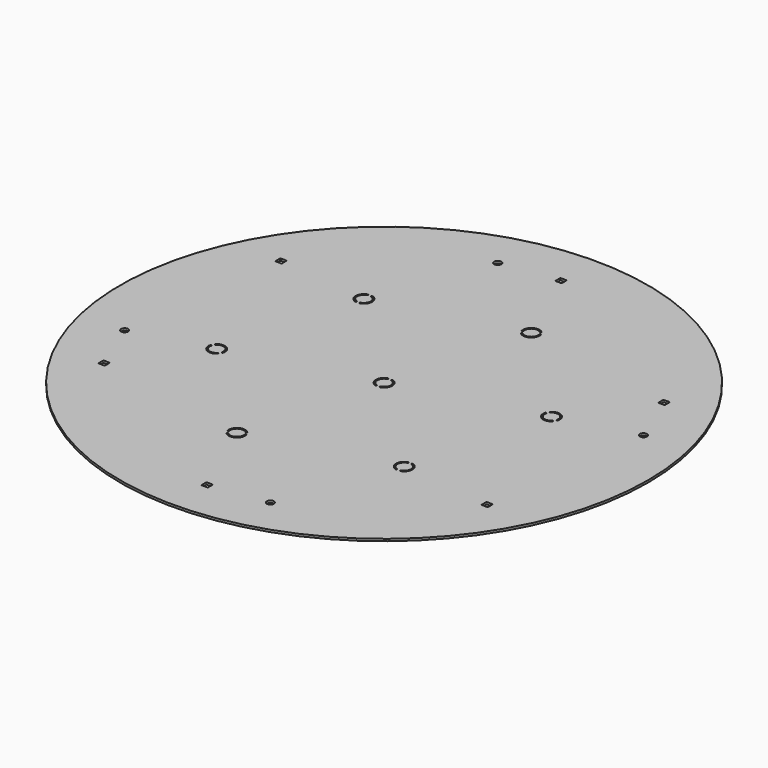
from build123d import *

# Parameters (mm, degrees)
F0_R     = 370
F1_DEPTH = 3
F3_DEPTH = 5
F4_R     = 370
F5_DEPTH = 3
F6_R     = 370
F6_R_2   = 5
F7_DEPTH = 3
F8_R     = 370
F8_R_2   = 5
F9_DEPTH = 3


with BuildPart() as f1:
    # F0 (on Top) → F1 (new body)
    with BuildSketch(Plane.XY):
        Circle(F0_R)
    extrude(amount=F1_DEPTH)

    # F2 (on face) → F3 (cut)
    with BuildSketch(Plane.XY.offset(3)):
        with BuildLine():
            ThreePointArc((4.5, 314), (4.353553, 314.353553), (4, 314.5))
            Line((4, 314.5), (-4, 314.5))
            ThreePointArc((-4, 314.5), (-4.353553, 314.353553), (-4.5, 314))
            Line((-4.5, 314), (-4.5, 306))
            ThreePointArc((-4.5, 306), (-4.353553, 305.646447), (-4, 305.5))
            Line((-4, 305.5), (4, 305.5))
            ThreePointArc((4, 305.5), (4.353553, 305.646447), (4.5, 306))
            Line((4.5, 306), (4.5, 314))
        make_face()
        with BuildLine():
            ThreePointArc((272.967875, 159), (272.821429, 159.353553), (272.467875, 159.5))
            Line((272.467875, 159.5), (264.467875, 159.5))
            ThreePointArc((264.467875, 159.5), (264.114322, 159.353553), (263.967875, 159))
            Line((263.967875, 159), (263.967875, 151))
            ThreePointArc((263.967875, 151), (264.114322, 150.646447), (264.467875, 150.5))
            Line((264.467875, 150.5), (272.467875, 150.5))
            ThreePointArc((272.467875, 150.5), (272.821429, 150.646447), (272.967875, 151))
            Line((272.967875, 151), (272.967875, 159))
        make_face()
        with BuildLine():
            ThreePointArc((272.967875, -151), (272.821429, -150.646447), (272.467875, -150.5))
            Line((272.467875, -150.5), (264.467875, -150.5))
            ThreePointArc((264.467875, -150.5), (264.114322, -150.646447), (263.967875, -151))
            Line((263.967875, -151), (263.967875, -159))
            ThreePointArc((263.967875, -159), (264.114322, -159.353553), (264.467875, -159.5))
            Line((264.467875, -159.5), (272.467875, -159.5))
            ThreePointArc((272.467875, -159.5), (272.821429, -159.353553), (272.967875, -159))
            Line((272.967875, -159), (272.967875, -151))
        make_face()
        with BuildLine():
            Line((4, -305.5), (-4, -305.5))
            ThreePointArc((-4, -305.5), (-4.353553, -305.646447), (-4.5, -306))
            Line((-4.5, -306), (-4.5, -314))
            ThreePointArc((-4.5, -314), (-4.353553, -314.353553), (-4, -314.5))
            Line((-4, -314.5), (4, -314.5))
            ThreePointArc((4, -314.5), (4.353553, -314.353553), (4.5, -314))
            Line((4.5, -314), (4.5, -306))
            ThreePointArc((4.5, -306), (4.353553, -305.646447), (4, -305.5))
        make_face()
        with BuildLine():
            ThreePointArc((-263.967875, -151), (-264.114322, -150.646447), (-264.467875, -150.5))
            Line((-264.467875, -150.5), (-272.467875, -150.5))
            ThreePointArc((-272.467875, -150.5), (-272.821429, -150.646447), (-272.967875, -151))
            Line((-272.967875, -151), (-272.967875, -159))
            ThreePointArc((-272.967875, -159), (-272.821429, -159.353553), (-272.467875, -159.5))
            Line((-272.467875, -159.5), (-264.467875, -159.5))
            ThreePointArc((-264.467875, -159.5), (-264.114322, -159.353553), (-263.967875, -159))
            Line((-263.967875, -159), (-263.967875, -151))
        make_face()
        with BuildLine():
            Line((-272.467875, 150.5), (-264.467875, 150.5))
            ThreePointArc((-264.467875, 150.5), (-264.114322, 150.646447), (-263.967875, 151))
            Line((-263.967875, 151), (-263.967875, 159))
            ThreePointArc((-263.967875, 159), (-264.114322, 159.353553), (-264.467875, 159.5))
            Line((-264.467875, 159.5), (-272.467875, 159.5))
            ThreePointArc((-272.467875, 159.5), (-272.821429, 159.353553), (-272.967875, 159))
            Line((-272.967875, 159), (-272.967875, 151))
            ThreePointArc((-272.967875, 151), (-272.821429, 150.646447), (-272.467875, 150.5))
        make_face()
    extrude(amount=-F3_DEPTH, mode=Mode.SUBTRACT)

    # F4 (on face) → F5 (intersect, through all)
    with BuildSketch(Plane.XY.offset(3)):
        Circle(F4_R)
        with BuildLine():
            ThreePointArc((-264.467875, -150.5), (-264.114322, -150.646447), (-263.967875, -151))
            Line((-263.967875, -151), (-263.967875, -159))
            ThreePointArc((-263.967875, -159), (-264.114322, -159.353553), (-264.467875, -159.5))
            Line((-264.467875, -159.5), (-272.467875, -159.5))
            ThreePointArc((-272.467875, -159.5), (-272.821429, -159.353553), (-272.967875, -159))
            Line((-272.967875, -159), (-272.967875, -151))
            ThreePointArc((-272.967875, -151), (-272.821429, -150.646447), (-272.467875, -150.5))
            Line((-272.467875, -150.5), (-264.467875, -150.5))
        make_face(mode=Mode.SUBTRACT)
        with BuildLine():
            ThreePointArc((4, -305.5), (4.353553, -305.646447), (4.5, -306))
            Line((4.5, -306), (4.5, -314))
            ThreePointArc((4.5, -314), (4.353553, -314.353553), (4, -314.5))
            Line((4, -314.5), (-4, -314.5))
            ThreePointArc((-4, -314.5), (-4.353553, -314.353553), (-4.5, -314))
            Line((-4.5, -314), (-4.5, -306))
            ThreePointArc((-4.5, -306), (-4.353553, -305.646447), (-4, -305.5))
            Line((-4, -305.5), (4, -305.5))
        make_face(mode=Mode.SUBTRACT)
        with BuildLine():
            Line((272.967875, -151), (272.967875, -159))
            ThreePointArc((272.967875, -159), (272.821429, -159.353553), (272.467875, -159.5))
            Line((272.467875, -159.5), (264.467875, -159.5))
            ThreePointArc((264.467875, -159.5), (264.114322, -159.353553), (263.967875, -159))
            Line((263.967875, -159), (263.967875, -151))
            ThreePointArc((263.967875, -151), (264.114322, -150.646447), (264.467875, -150.5))
            Line((264.467875, -150.5), (272.467875, -150.5))
            ThreePointArc((272.467875, -150.5), (272.821429, -150.646447), (272.967875, -151))
        make_face(mode=Mode.SUBTRACT)
        with BuildLine():
            ThreePointArc((-263.967875, 151), (-264.114322, 150.646447), (-264.467875, 150.5))
            Line((-264.467875, 150.5), (-272.467875, 150.5))
            ThreePointArc((-272.467875, 150.5), (-272.821429, 150.646447), (-272.967875, 151))
            Line((-272.967875, 151), (-272.967875, 159))
            ThreePointArc((-272.967875, 159), (-272.821429, 159.353553), (-272.467875, 159.5))
            Line((-272.467875, 159.5), (-264.467875, 159.5))
            ThreePointArc((-264.467875, 159.5), (-264.114322, 159.353553), (-263.967875, 159))
            Line((-263.967875, 159), (-263.967875, 151))
        make_face(mode=Mode.SUBTRACT)
        with BuildLine():
            ThreePointArc((-2, 10.062306), (-2.198216, 9.464692), (-2.714286, 9.103991))
            ThreePointArc((-2.714286, 9.103991), (-9.5, 0), (-2.714286, -9.103991))
            ThreePointArc((-2.714286, -9.103991), (-2.198216, -9.464692), (-2, -10.062306))
            ThreePointArc((-2, -10.062306), (-2.402386, -10.86409), (-3.285714, -11.020621))
            ThreePointArc((-3.285714, -11.020621), (-11.5, 0), (-3.285714, 11.020621))
            ThreePointArc((-3.285714, 11.020621), (-2.402386, 10.86409), (-2, 10.062306))
        make_face(mode=Mode.SUBTRACT)
        with BuildLine():
            ThreePointArc((3.285714, 11.020621), (11.5, 0), (3.285714, -11.020621))
            ThreePointArc((3.285714, -11.020621), (2.402386, -10.86409), (2, -10.062306))
            ThreePointArc((2, -10.062306), (2.198216, -9.464692), (2.714286, -9.103991))
            ThreePointArc((2.714286, -9.103991), (9.5, 0), (2.714286, 9.103991))
            ThreePointArc((2.714286, 9.103991), (2.198216, 9.464692), (2, 10.062306))
            ThreePointArc((2, 10.062306), (2.402386, 10.86409), (3.285714, 11.020621))
        make_face(mode=Mode.SUBTRACT)
        with BuildLine():
            ThreePointArc((272.467875, 159.5), (272.821429, 159.353553), (272.967875, 159))
            Line((272.967875, 159), (272.967875, 151))
            ThreePointArc((272.967875, 151), (272.821429, 150.646447), (272.467875, 150.5))
            Line((272.467875, 150.5), (264.467875, 150.5))
            ThreePointArc((264.467875, 150.5), (264.114322, 150.646447), (263.967875, 151))
            Line((263.967875, 151), (263.967875, 159))
            ThreePointArc((263.967875, 159), (264.114322, 159.353553), (264.467875, 159.5))
            Line((264.467875, 159.5), (272.467875, 159.5))
        make_face(mode=Mode.SUBTRACT)
        with BuildLine():
            ThreePointArc((4, 314.5), (4.353553, 314.353553), (4.5, 314))
            Line((4.5, 314), (4.5, 306))
            ThreePointArc((4.5, 306), (4.353553, 305.646447), (4, 305.5))
            Line((4, 305.5), (-4, 305.5))
            ThreePointArc((-4, 305.5), (-4.353553, 305.646447), (-4.5, 306))
            Line((-4.5, 306), (-4.5, 314))
            ThreePointArc((-4.5, 314), (-4.353553, 314.353553), (-4, 314.5))
            Line((-4, 314.5), (4, 314.5))
        make_face(mode=Mode.SUBTRACT)
    extrude(amount=-F5_DEPTH, mode=Mode.INTERSECT)

    # F6 (on face) → F7 (intersect)
    with BuildSketch(Plane.XY.offset(3)):
        Circle(F6_R)
        with BuildLine():
            ThreePointArc((-264.467875, -150.5), (-264.114322, -150.646447), (-263.967875, -151))
            Line((-263.967875, -151), (-263.967875, -159))
            ThreePointArc((-263.967875, -159), (-264.114322, -159.353553), (-264.467875, -159.5))
            Line((-264.467875, -159.5), (-272.467875, -159.5))
            ThreePointArc((-272.467875, -159.5), (-272.821429, -159.353553), (-272.967875, -159))
            Line((-272.967875, -159), (-272.967875, -151))
            ThreePointArc((-272.967875, -151), (-272.821429, -150.646447), (-272.467875, -150.5))
            Line((-272.467875, -150.5), (-264.467875, -150.5))
        make_face(mode=Mode.SUBTRACT)
        with Locations((-299.437006, -80.233904)):
            Circle(F6_R_2, mode=Mode.SUBTRACT)
        with BuildLine():
            ThreePointArc((4, -305.5), (4.353553, -305.646447), (4.5, -306))
            Line((4.5, -306), (4.5, -314))
            ThreePointArc((4.5, -314), (4.353553, -314.353553), (4, -314.5))
            Line((4, -314.5), (-4, -314.5))
            ThreePointArc((-4, -314.5), (-4.353553, -314.353553), (-4.5, -314))
            Line((-4.5, -314), (-4.5, -306))
            ThreePointArc((-4.5, -306), (-4.353553, -305.646447), (-4, -305.5))
            Line((-4, -305.5), (4, -305.5))
        make_face(mode=Mode.SUBTRACT)
        with Locations((80.233904, -299.437006)):
            Circle(F6_R_2, mode=Mode.SUBTRACT)
        with BuildLine():
            Line((272.967875, -151), (272.967875, -159))
            ThreePointArc((272.967875, -159), (272.821429, -159.353553), (272.467875, -159.5))
            Line((272.467875, -159.5), (264.467875, -159.5))
            ThreePointArc((264.467875, -159.5), (264.114322, -159.353553), (263.967875, -159))
            Line((263.967875, -159), (263.967875, -151))
            ThreePointArc((263.967875, -151), (264.114322, -150.646447), (264.467875, -150.5))
            Line((264.467875, -150.5), (272.467875, -150.5))
            ThreePointArc((272.467875, -150.5), (272.821429, -150.646447), (272.967875, -151))
        make_face(mode=Mode.SUBTRACT)
        with BuildLine():
            ThreePointArc((-263.967875, 151), (-264.114322, 150.646447), (-264.467875, 150.5))
            Line((-264.467875, 150.5), (-272.467875, 150.5))
            ThreePointArc((-272.467875, 150.5), (-272.821429, 150.646447), (-272.967875, 151))
            Line((-272.967875, 151), (-272.967875, 159))
            ThreePointArc((-272.967875, 159), (-272.821429, 159.353553), (-272.467875, 159.5))
            Line((-272.467875, 159.5), (-264.467875, 159.5))
            ThreePointArc((-264.467875, 159.5), (-264.114322, 159.353553), (-263.967875, 159))
            Line((-263.967875, 159), (-263.967875, 151))
        make_face(mode=Mode.SUBTRACT)
        with BuildLine():
            ThreePointArc((-2.714286, 9.103991), (-9.5, 0), (-2.714286, -9.103991))
            ThreePointArc((-2.714286, -9.103991), (-2.041685, -10.34802), (-3.285714, -11.020621))
            ThreePointArc((-3.285714, -11.020621), (-11.5, 0), (-3.285714, 11.020621))
            ThreePointArc((-3.285714, 11.020621), (-2.041685, 10.34802), (-2.714286, 9.103991))
        make_face(mode=Mode.SUBTRACT)
        with Locations((-80.233904, 299.437006)):
            Circle(F6_R_2, mode=Mode.SUBTRACT)
        with BuildLine():
            ThreePointArc((2.714286, -9.103991), (9.5, 0), (2.714286, 9.103991))
            ThreePointArc((2.714286, 9.103991), (2.041685, 10.34802), (3.285714, 11.020621))
            ThreePointArc((3.285714, 11.020621), (11.5, 0), (3.285714, -11.020621))
            ThreePointArc((3.285714, -11.020621), (2.041685, -10.34802), (2.714286, -9.103991))
        make_face(mode=Mode.SUBTRACT)
        with Locations((299.437006, 80.233904)):
            Circle(F6_R_2, mode=Mode.SUBTRACT)
        with BuildLine():
            ThreePointArc((272.467875, 159.5), (272.821429, 159.353553), (272.967875, 159))
            Line((272.967875, 159), (272.967875, 151))
            ThreePointArc((272.967875, 151), (272.821429, 150.646447), (272.467875, 150.5))
            Line((272.467875, 150.5), (264.467875, 150.5))
            ThreePointArc((264.467875, 150.5), (264.114322, 150.646447), (263.967875, 151))
            Line((263.967875, 151), (263.967875, 159))
            ThreePointArc((263.967875, 159), (264.114322, 159.353553), (264.467875, 159.5))
            Line((264.467875, 159.5), (272.467875, 159.5))
        make_face(mode=Mode.SUBTRACT)
        with BuildLine():
            ThreePointArc((4, 314.5), (4.353553, 314.353553), (4.5, 314))
            Line((4.5, 314), (4.5, 306))
            ThreePointArc((4.5, 306), (4.353553, 305.646447), (4, 305.5))
            Line((4, 305.5), (-4, 305.5))
            ThreePointArc((-4, 305.5), (-4.353553, 305.646447), (-4.5, 306))
            Line((-4.5, 306), (-4.5, 314))
            ThreePointArc((-4.5, 314), (-4.353553, 314.353553), (-4, 314.5))
            Line((-4, 314.5), (4, 314.5))
        make_face(mode=Mode.SUBTRACT)
    extrude(amount=-F7_DEPTH, mode=Mode.INTERSECT)

    # F8 (on face) → F9 (intersect, through all)
    with BuildSketch(Plane.XY.offset(3)):
        Circle(F8_R)
        with BuildLine():
            ThreePointArc((-40.576814, -190.520367), (-46.013809, -203.144457), (-59.665089, -201.540988))
            ThreePointArc((-59.665089, -201.540988), (-59.971194, -200.697737), (-59.478022, -199.948369))
            ThreePointArc((-59.478022, -199.948369), (-58.861364, -199.821222), (-58.290954, -200.087801))
            ThreePointArc((-58.290954, -200.087801), (-47.013809, -201.412407), (-42.522379, -190.98381))
            ThreePointArc((-42.522379, -190.98381), (-42.468038, -190.356531), (-42.049596, -189.886063))
            ThreePointArc((-42.049596, -189.886063), (-41.154039, -189.833647), (-40.576814, -190.520367))
        make_face(mode=Mode.SUBTRACT)
        with BuildLine():
            ThreePointArc((-44.049596, -186.421962), (-44.666254, -186.549108), (-45.236664, -186.282529))
            ThreePointArc((-45.236664, -186.282529), (-56.513809, -184.957924), (-61.005239, -195.38652))
            ThreePointArc((-61.005239, -195.38652), (-61.059581, -196.0138), (-61.478022, -196.484267))
            ThreePointArc((-61.478022, -196.484267), (-62.373579, -196.536683), (-62.950804, -195.849964))
            ThreePointArc((-62.950804, -195.849964), (-57.513809, -183.225873), (-43.862529, -184.829343))
            ThreePointArc((-43.862529, -184.829343), (-43.556424, -185.672593), (-44.049596, -186.421962))
        make_face(mode=Mode.SUBTRACT)
        with BuildLine():
            ThreePointArc((-264.467875, -150.5), (-264.114322, -150.646447), (-263.967875, -151))
            Line((-263.967875, -151), (-263.967875, -159))
            ThreePointArc((-263.967875, -159), (-264.114322, -159.353553), (-264.467875, -159.5))
            Line((-264.467875, -159.5), (-272.467875, -159.5))
            ThreePointArc((-272.467875, -159.5), (-272.821429, -159.353553), (-272.967875, -159))
            Line((-272.967875, -159), (-272.967875, -151))
            ThreePointArc((-272.967875, -151), (-272.821429, -150.646447), (-272.467875, -150.5))
            Line((-272.467875, -150.5), (-264.467875, -150.5))
        make_face(mode=Mode.SUBTRACT)
        with Locations((-299.437006, -80.233904)):
            Circle(F8_R_2, mode=Mode.SUBTRACT)
        with BuildLine():
            ThreePointArc((-185.283885, -60.119631), (-198.935165, -61.723101), (-204.37216, -49.099011))
            ThreePointArc((-204.37216, -49.099011), (-203.794936, -48.412291), (-202.899378, -48.464707))
            ThreePointArc((-202.899378, -48.464707), (-202.480937, -48.935174), (-202.426596, -49.562454))
            ThreePointArc((-202.426596, -49.562454), (-197.935165, -59.99105), (-186.658021, -58.666445))
            ThreePointArc((-186.658021, -58.666445), (-186.08761, -58.399866), (-185.470953, -58.527013))
            ThreePointArc((-185.470953, -58.527013), (-184.977781, -59.276381), (-185.283885, -60.119631))
        make_face(mode=Mode.SUBTRACT)
        with BuildLine():
            ThreePointArc((-183.470953, -55.062911), (-183.889394, -54.592444), (-183.943735, -53.965164))
            ThreePointArc((-183.943735, -53.965164), (-188.435165, -43.536568), (-199.71231, -44.861173))
            ThreePointArc((-199.71231, -44.861173), (-200.28272, -45.127752), (-200.899378, -45.000605))
            ThreePointArc((-200.899378, -45.000605), (-201.39255, -44.251237), (-201.086446, -43.407987))
            ThreePointArc((-201.086446, -43.407987), (-187.435165, -41.804517), (-181.998171, -54.428607))
            ThreePointArc((-181.998171, -54.428607), (-182.575395, -55.115327), (-183.470953, -55.062911))
        make_face(mode=Mode.SUBTRACT)
        with BuildLine():
            ThreePointArc((4, -305.5), (4.353553, -305.646447), (4.5, -306))
            Line((4.5, -306), (4.5, -314))
            ThreePointArc((4.5, -314), (4.353553, -314.353553), (4, -314.5))
            Line((4, -314.5), (-4, -314.5))
            ThreePointArc((-4, -314.5), (-4.353553, -314.353553), (-4.5, -314))
            Line((-4.5, -314), (-4.5, -306))
            ThreePointArc((-4.5, -306), (-4.353553, -305.646447), (-4, -305.5))
            Line((-4, -305.5), (4, -305.5))
        make_face(mode=Mode.SUBTRACT)
        with Locations((80.233904, -299.437006)):
            Circle(F8_R_2, mode=Mode.SUBTRACT)
        with BuildLine():
            ThreePointArc((139.421356, -131.35905), (139.22314, -131.956665), (138.707071, -132.317365))
            ThreePointArc((138.707071, -132.317365), (131.921356, -141.421356), (138.707071, -150.525347))
            ThreePointArc((138.707071, -150.525347), (139.22314, -150.886048), (139.421356, -151.483662))
            ThreePointArc((139.421356, -151.483662), (139.018971, -152.285446), (138.135642, -152.441977))
            ThreePointArc((138.135642, -152.441977), (129.921356, -141.421356), (138.135642, -130.400735))
            ThreePointArc((138.135642, -130.400735), (139.018971, -130.557267), (139.421356, -131.35905))
        make_face(mode=Mode.SUBTRACT)
        with BuildLine():
            ThreePointArc((144.707071, -130.400735), (152.921356, -141.421356), (144.707071, -152.441977))
            ThreePointArc((144.707071, -152.441977), (143.823742, -152.285446), (143.421356, -151.483662))
            ThreePointArc((143.421356, -151.483662), (143.619573, -150.886048), (144.135642, -150.525347))
            ThreePointArc((144.135642, -150.525347), (150.921356, -141.421356), (144.135642, -132.317365))
            ThreePointArc((144.135642, -132.317365), (143.619573, -131.956665), (143.421356, -131.35905))
            ThreePointArc((143.421356, -131.35905), (143.823742, -130.557267), (144.707071, -130.400735))
        make_face(mode=Mode.SUBTRACT)
        with BuildLine():
            Line((272.967875, -151), (272.967875, -159))
            ThreePointArc((272.967875, -159), (272.821429, -159.353553), (272.467875, -159.5))
            Line((272.467875, -159.5), (264.467875, -159.5))
            ThreePointArc((264.467875, -159.5), (264.114322, -159.353553), (263.967875, -159))
            Line((263.967875, -159), (263.967875, -151))
            ThreePointArc((263.967875, -151), (264.114322, -150.646447), (264.467875, -150.5))
            Line((264.467875, -150.5), (272.467875, -150.5))
            ThreePointArc((272.467875, -150.5), (272.821429, -150.646447), (272.967875, -151))
        make_face(mode=Mode.SUBTRACT)
        with BuildLine():
            ThreePointArc((-263.967875, 151), (-264.114322, 150.646447), (-264.467875, 150.5))
            Line((-264.467875, 150.5), (-272.467875, 150.5))
            ThreePointArc((-272.467875, 150.5), (-272.821429, 150.646447), (-272.967875, 151))
            Line((-272.967875, 151), (-272.967875, 159))
            ThreePointArc((-272.967875, 159), (-272.821429, 159.353553), (-272.467875, 159.5))
            Line((-272.467875, 159.5), (-264.467875, 159.5))
            ThreePointArc((-264.467875, 159.5), (-264.114322, 159.353553), (-263.967875, 159))
            Line((-263.967875, 159), (-263.967875, 151))
        make_face(mode=Mode.SUBTRACT)
        with BuildLine():
            ThreePointArc((-2.714286, 9.103991), (-9.5, 0), (-2.714286, -9.103991))
            ThreePointArc((-2.714286, -9.103991), (-2.041685, -10.34802), (-3.285714, -11.020621))
            ThreePointArc((-3.285714, -11.020621), (-11.5, 0), (-3.285714, 11.020621))
            ThreePointArc((-3.285714, 11.020621), (-2.041685, 10.34802), (-2.714286, 9.103991))
        make_face(mode=Mode.SUBTRACT)
        with BuildLine():
            ThreePointArc((-143.421356, 151.483662), (-143.619573, 150.886048), (-144.135642, 150.525347))
            ThreePointArc((-144.135642, 150.525347), (-150.921356, 141.421356), (-144.135642, 132.317365))
            ThreePointArc((-144.135642, 132.317365), (-143.619573, 131.956665), (-143.421356, 131.35905))
            ThreePointArc((-143.421356, 131.35905), (-143.823742, 130.557267), (-144.707071, 130.400735))
            ThreePointArc((-144.707071, 130.400735), (-152.921356, 141.421356), (-144.707071, 152.441977))
            ThreePointArc((-144.707071, 152.441977), (-143.823742, 152.285446), (-143.421356, 151.483662))
        make_face(mode=Mode.SUBTRACT)
        with BuildLine():
            ThreePointArc((-138.135642, 152.441977), (-129.921356, 141.421356), (-138.135642, 130.400735))
            ThreePointArc((-138.135642, 130.400735), (-139.018971, 130.557267), (-139.421356, 131.35905))
            ThreePointArc((-139.421356, 131.35905), (-139.22314, 131.956665), (-138.707071, 132.317365))
            ThreePointArc((-138.707071, 132.317365), (-131.921356, 141.421356), (-138.707071, 150.525347))
            ThreePointArc((-138.707071, 150.525347), (-139.22314, 150.886048), (-139.421356, 151.483662))
            ThreePointArc((-139.421356, 151.483662), (-139.018971, 152.285446), (-138.135642, 152.441977))
        make_face(mode=Mode.SUBTRACT)
        with Locations((-80.233904, 299.437006)):
            Circle(F8_R_2, mode=Mode.SUBTRACT)
        with BuildLine():
            ThreePointArc((2.714286, -9.103991), (9.5, 0), (2.714286, 9.103991))
            ThreePointArc((2.714286, 9.103991), (2.041685, 10.34802), (3.285714, 11.020621))
            ThreePointArc((3.285714, 11.020621), (11.5, 0), (3.285714, -11.020621))
            ThreePointArc((3.285714, -11.020621), (2.041685, -10.34802), (2.714286, -9.103991))
        make_face(mode=Mode.SUBTRACT)
        with BuildLine():
            ThreePointArc((183.470953, 55.062911), (183.889394, 54.592444), (183.943735, 53.965164))
            ThreePointArc((183.943735, 53.965164), (188.435165, 43.536568), (199.71231, 44.861173))
            ThreePointArc((199.71231, 44.861173), (200.28272, 45.127752), (200.899378, 45.000605))
            ThreePointArc((200.899378, 45.000605), (201.39255, 44.251237), (201.086446, 43.407987))
            ThreePointArc((201.086446, 43.407987), (187.435165, 41.804517), (181.998171, 54.428607))
            ThreePointArc((181.998171, 54.428607), (182.575395, 55.115327), (183.470953, 55.062911))
        make_face(mode=Mode.SUBTRACT)
        with BuildLine():
            ThreePointArc((185.283885, 60.119631), (198.935165, 61.723101), (204.37216, 49.099011))
            ThreePointArc((204.37216, 49.099011), (203.794936, 48.412291), (202.899378, 48.464707))
            ThreePointArc((202.899378, 48.464707), (202.480937, 48.935174), (202.426596, 49.562454))
            ThreePointArc((202.426596, 49.562454), (197.935165, 59.99105), (186.658021, 58.666445))
            ThreePointArc((186.658021, 58.666445), (186.08761, 58.399866), (185.470953, 58.527013))
            ThreePointArc((185.470953, 58.527013), (184.977781, 59.276381), (185.283885, 60.119631))
        make_face(mode=Mode.SUBTRACT)
        with Locations((299.437006, 80.233904)):
            Circle(F8_R_2, mode=Mode.SUBTRACT)
        with BuildLine():
            ThreePointArc((272.467875, 159.5), (272.821429, 159.353553), (272.967875, 159))
            Line((272.967875, 159), (272.967875, 151))
            ThreePointArc((272.967875, 151), (272.821429, 150.646447), (272.467875, 150.5))
            Line((272.467875, 150.5), (264.467875, 150.5))
            ThreePointArc((264.467875, 150.5), (264.114322, 150.646447), (263.967875, 151))
            Line((263.967875, 151), (263.967875, 159))
            ThreePointArc((263.967875, 159), (264.114322, 159.353553), (264.467875, 159.5))
            Line((264.467875, 159.5), (272.467875, 159.5))
        make_face(mode=Mode.SUBTRACT)
        with BuildLine():
            ThreePointArc((44.049596, 186.421962), (44.666254, 186.549108), (45.236664, 186.282529))
            ThreePointArc((45.236664, 186.282529), (56.513809, 184.957924), (61.005239, 195.38652))
            ThreePointArc((61.005239, 195.38652), (61.059581, 196.0138), (61.478022, 196.484267))
            ThreePointArc((61.478022, 196.484267), (62.373579, 196.536683), (62.950804, 195.849964))
            ThreePointArc((62.950804, 195.849964), (57.513809, 183.225873), (43.862529, 184.829343))
            ThreePointArc((43.862529, 184.829343), (43.556424, 185.672593), (44.049596, 186.421962))
        make_face(mode=Mode.SUBTRACT)
        with BuildLine():
            ThreePointArc((40.576814, 190.520367), (46.013809, 203.144457), (59.665089, 201.540988))
            ThreePointArc((59.665089, 201.540988), (59.971194, 200.697737), (59.478022, 199.948369))
            ThreePointArc((59.478022, 199.948369), (58.861364, 199.821222), (58.290954, 200.087801))
            ThreePointArc((58.290954, 200.087801), (47.013809, 201.412407), (42.522379, 190.98381))
            ThreePointArc((42.522379, 190.98381), (42.468038, 190.356531), (42.049596, 189.886063))
            ThreePointArc((42.049596, 189.886063), (41.154039, 189.833647), (40.576814, 190.520367))
        make_face(mode=Mode.SUBTRACT)
        with BuildLine():
            ThreePointArc((4, 314.5), (4.353553, 314.353553), (4.5, 314))
            Line((4.5, 314), (4.5, 306))
            ThreePointArc((4.5, 306), (4.353553, 305.646447), (4, 305.5))
            Line((4, 305.5), (-4, 305.5))
            ThreePointArc((-4, 305.5), (-4.353553, 305.646447), (-4.5, 306))
            Line((-4.5, 306), (-4.5, 314))
            ThreePointArc((-4.5, 314), (-4.353553, 314.353553), (-4, 314.5))
            Line((-4, 314.5), (4, 314.5))
        make_face(mode=Mode.SUBTRACT)
    extrude(amount=-F9_DEPTH, mode=Mode.INTERSECT)


solid = f1.part
